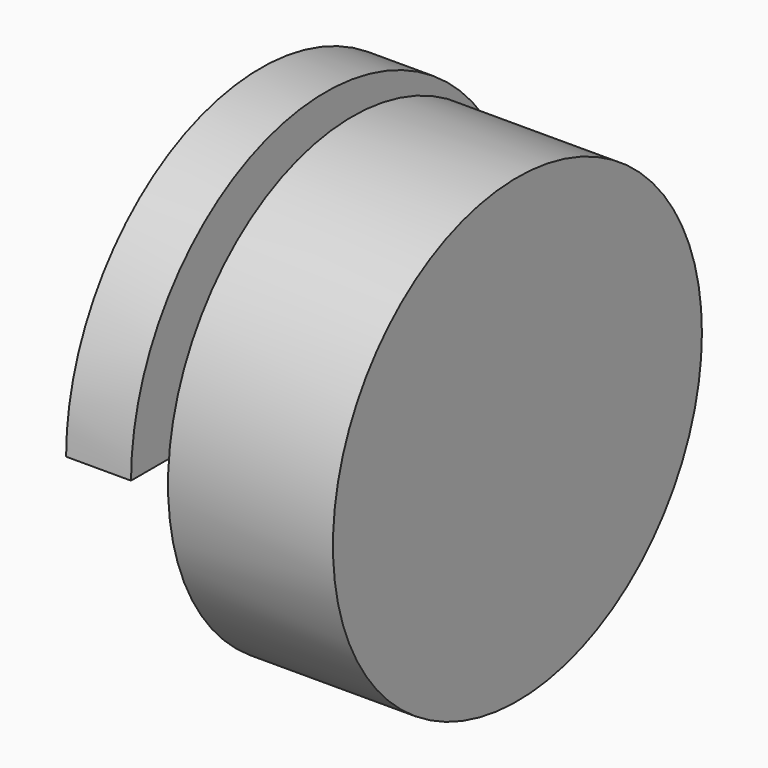
from build123d import *

# Parameters (mm, degrees)
F1_W     = 17.993393
F1_H     = 34.332218
F2_ANGLE = -180


with BuildPart() as f2:
    # F1 (on face) → F2 (revolve)
    with BuildSketch(Plane.XY):
        Polygon((12.023137, 4.216103), (-5.970256, 4.216103), (-5.970256, -13.156827), (47.803093, -13.156827), (47.803093, 4.216103), align=None)
        with Locations((3.026441, 21.382212)):
            Rectangle(F1_W, F1_H)
    revolve(axis=Axis((24.225553, -28.875191, 0), (-1, 0, 0)), revolution_arc=F2_ANGLE)

    # F1 (on face) → F3 (revolve)
    with BuildSketch(Plane.XY):
        Polygon((54.421362, 26.139084), (54.421362, -13.156827), (54.421362, -28.875191), (65.176025, -28.875191), (65.176025, 26.139084), align=None)
        Polygon((19.468673, 26.139084), (54.421362, 26.139084), (65.176025, 26.139084), (65.176025, 35.032369), (19.468673, 35.032369), align=None)
        Polygon((47.803093, -13.156827), (-5.970256, -13.156827), (-5.970256, -28.875191), (54.421362, -28.875191), (54.421362, -13.156827), align=None)
    revolve(axis=Axis((59.798693, -28.875191, 0), (-1, 0, 0)))


solid = f2.part
